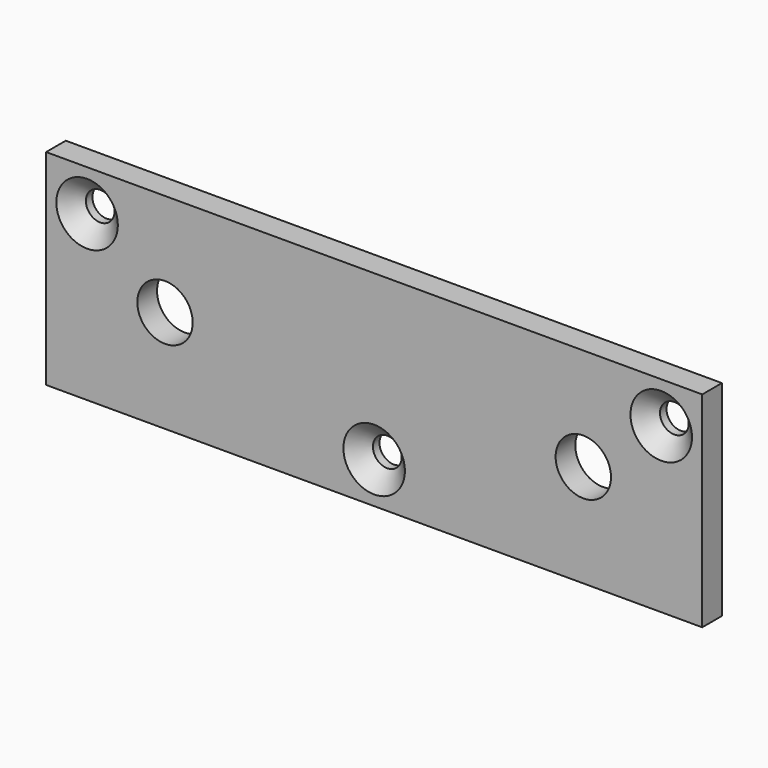
from build123d import *

# Parameters (mm, degrees)
F0_W     = 80
F0_H     = 25
F0_R     = 1.75
F0_R_2   = 3.375
F1_DEPTH = 3
F2_SIZE  = 2


with BuildPart() as f1:
    # F0 (on Front) → F1 (new body)
    with BuildSketch(Plane.XZ):
        Rectangle(F0_W, F0_H)
        with Locations((0, -7.5)):
            Circle(F0_R, mode=Mode.SUBTRACT)
        with Locations((-25.5, 0)):
            Circle(F0_R_2, mode=Mode.SUBTRACT)
        with Locations((-35, 7.5)):
            Circle(F0_R, mode=Mode.SUBTRACT)
        with Locations((25.5, 0)):
            Circle(F0_R_2, mode=Mode.SUBTRACT)
        with Locations((35, 7.5)):
            Circle(F0_R, mode=Mode.SUBTRACT)
    extrude(amount=F1_DEPTH)

    # F2
    f2_edges = [f1.edges().sort_by_distance(p)[0] for p in [
        (-36.75, -3, 7.5),
        (-1.75, -3, -7.5),
        (33.25, -3, 7.5),
    ]]
    chamfer(f2_edges, length=F2_SIZE)


solid = f1.part
